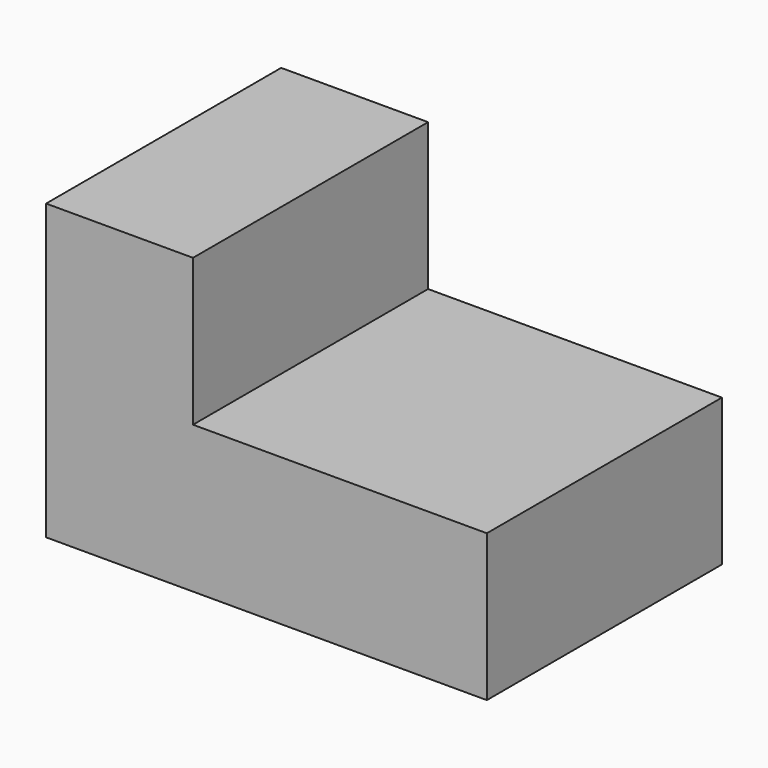
from build123d import *

# Parameters (mm, degrees)
F0_W     = 38.1
F0_H     = 12.7
F1_DEPTH = 25.4
F2_W     = 12.7
F2_H     = 25.4
F3_DEPTH = 12.7


with BuildPart() as f1:
    # F0 (on Front) → F1 (new body)
    with BuildSketch(Plane.XZ):
        with Locations((19.05, 6.35)):
            Rectangle(F0_W, F0_H)
        with Locations((19.05, 6.35)):
            Rectangle(F0_W, F0_H)
    extrude(amount=F1_DEPTH)

    # F2 (on face) → F3 (join)
    with BuildSketch(Plane.XY.offset(12.7)):
        with Locations((6.35, -12.7)):
            Rectangle(F2_W, F2_H)
    extrude(amount=F3_DEPTH)


solid = f1.part
